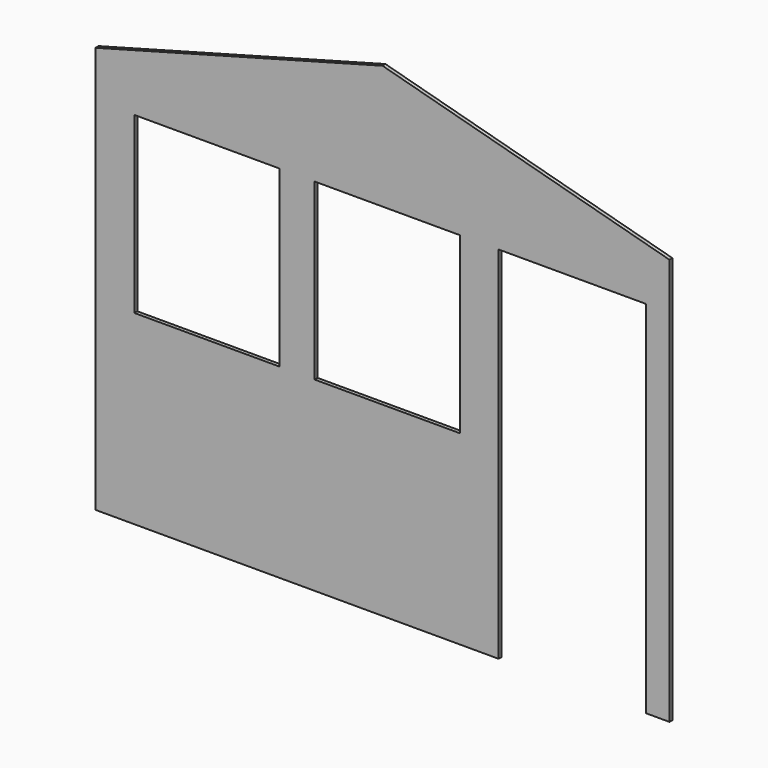
from build123d import *

# Parameters (mm, degrees)
F0_W     = 750
F0_H     = 900
F1_DEPTH = 19


with BuildPart() as f1:
    # F0 (on Front) → F1 (new body)
    with BuildSketch(Plane.XZ):
        Polygon((-120, 0), (0, 0), (0, 2100), (-1481, 2500), (-2962, 2100), (-2962, 0), (-882, 0), (-882, 1860), (-120, 1860), align=None)
        with Locations((-2387, 1410)):
            Rectangle(F0_W, F0_H, mode=Mode.SUBTRACT)
        with Locations((-1457, 1410)):
            Rectangle(F0_W, F0_H, mode=Mode.SUBTRACT)
    extrude(amount=F1_DEPTH)


solid = f1.part
